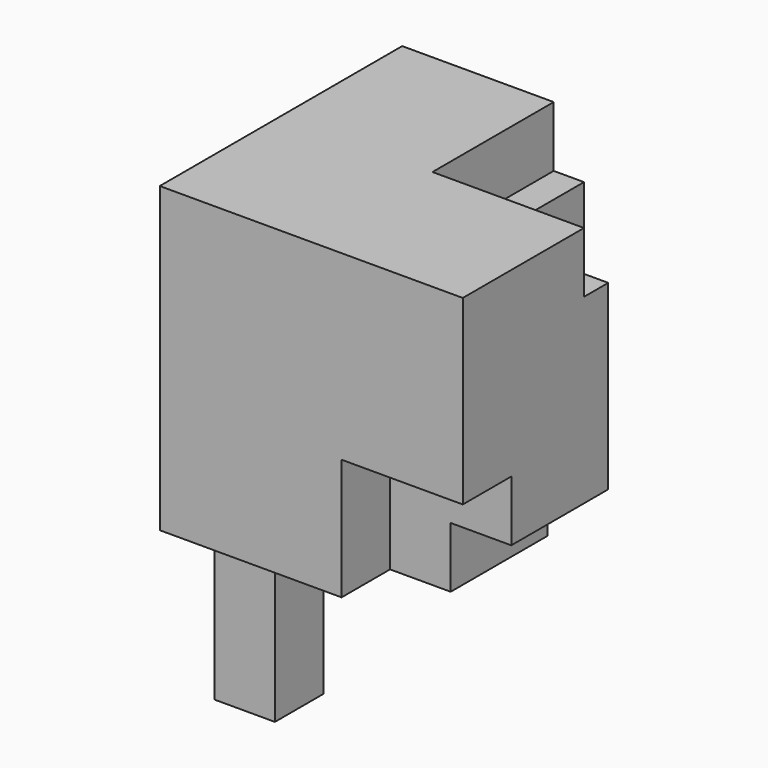
from build123d import *

# Parameters (mm, degrees)
F0_W      = 25.4
F0_H      = 25.4
F1_DEPTH  = 25.4
F2_W      = 10.16
F2_H      = 10.16
F3_DEPTH  = 5.08
F4_W      = 10.16
F4_H      = 10.16
F5_DEPTH  = 25.4
F6_W      = 5.08
F6_H      = 5.08
F7_DEPTH  = 12.7
F8_W      = 10.16
F8_H      = 10.16
F9_DEPTH  = 5.08
F10_W     = 5.08
F10_H     = 5.08
F11_DEPTH = 25.4
F12_W     = 5.08
F12_H     = 5.08
F13_DEPTH = 25.4
F14_W     = 12.7
F14_H     = 12.7
F15_DEPTH = 5.08


with BuildPart() as f1:
    # F0 (on Top) → F1 (new body)
    with BuildSketch(Plane.XY):
        with Locations((-12.7, -12.7)):
            Rectangle(F0_W, F0_H)
    extrude(amount=F1_DEPTH)

    # F2 (on face) → F3 (cut)
    with BuildSketch(Plane(origin=(-25.4, 0, 0), x_dir=(0, -1, 0), z_dir=(-1, 0, 0))):
        with Locations((5.08, 5.08)):
            Rectangle(F2_W, F2_H)
    extrude(amount=-F3_DEPTH, mode=Mode.SUBTRACT)

    # F4 (on face) → F5 (cut)
    with BuildSketch(Plane.XY.offset(25.4)):
        with Locations((-5.08, -5.08)):
            Rectangle(F4_W, F4_H)
    extrude(amount=-F5_DEPTH, mode=Mode.SUBTRACT)

    # F6 (on face) → F7 (join)
    with BuildSketch(Plane(origin=(0, 0, 0), x_dir=(1, 0, 0), z_dir=(0, 0, -1))):
        with Locations((-20.32, 20.32)):
            Rectangle(F6_W, F6_H)
    extrude(amount=F7_DEPTH)

    # F8 (on face) → F9 (cut)
    with BuildSketch(Plane.XZ.offset(25.4)):
        with Locations((-5.08, 5.08)):
            Rectangle(F8_W, F8_H)
    extrude(amount=-F9_DEPTH, mode=Mode.SUBTRACT)

    # F10 (on face) → F11 (cut)
    with BuildSketch(Plane.XZ.offset(20.32)):
        with Locations((-2.54, 2.54)):
            Rectangle(F10_W, F10_H)
    extrude(amount=-F11_DEPTH, mode=Mode.SUBTRACT)

    # F12 (on face) → F13 (cut)
    with BuildSketch(Plane(origin=(-20.32, 0, 0), x_dir=(0, -1, 0), z_dir=(-1, 0, 0))):
        with Locations((2.54, 2.54)):
            Rectangle(F12_W, F12_H)
    extrude(amount=-F13_DEPTH, mode=Mode.SUBTRACT)

    # F14 (on face) → F15 (cut)
    with BuildSketch(Plane.XY.offset(25.4)):
        with Locations((-6.35, -6.35)):
            Rectangle(F14_W, F14_H)
    extrude(amount=-F15_DEPTH, mode=Mode.SUBTRACT)


solid = f1.part
